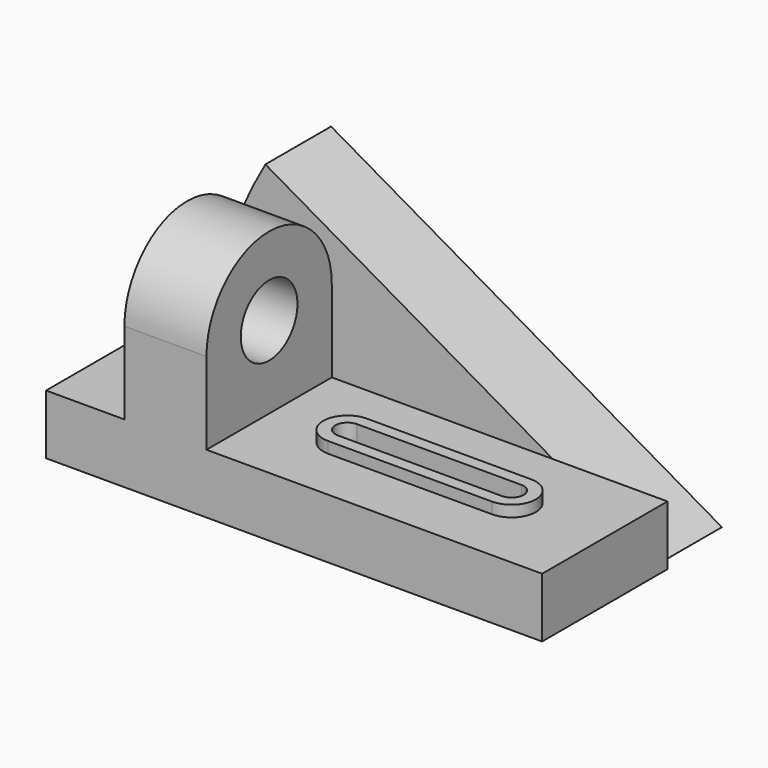
from build123d import *

# Parameters (mm, degrees)
F1_DEPTH  = 22
F2_W      = 133
F2_H      = 16
F3_DEPTH  = 42
F4_W      = 22
F4_H      = 42
F5_DEPTH  = 22
F7_DEPTH  = 22
F8_DEPTH  = 43.001
F10_DEPTH = 3
F11_DEPTH = 16.001


with BuildPart() as f1:
    # F0 (on Front) → F1 (new body)
    with BuildSketch(Plane.XZ):
        with BuildLine():
            ThreePointArc((16.210926, 60.5), (4.122975, 31.317104), (0, 0))
            Line((0, 0), (121, 0))
            Line((121, 0), (16.210926, 60.5))
        make_face()
    extrude(amount=-F1_DEPTH)

    # F2 (on Front) → F3 (join)
    with BuildSketch(Plane.XZ):
        with Locations((57.5, 8)):
            Rectangle(F2_W, F2_H)
    extrude(amount=F3_DEPTH)

    # F4 (on face) → F5 (join)
    with BuildSketch(Plane.XY.offset(16)):
        with Locations((23, -21)):
            Rectangle(F4_W, F4_H)
    extrude(amount=F5_DEPTH)

    # F6 (on face) → F7 (join, through all)
    with BuildSketch(Plane.YZ.offset(34)):
        with BuildLine():
            ThreePointArc((-30.5, 38), (-21, 47.5), (-11.5, 38))
            Line((-11.5, 38), (0, 38))
            ThreePointArc((0, 38), (-21, 59), (-42, 38))
            Line((-42, 38), (-30.5, 38))
        make_face()
    extrude(amount=-F7_DEPTH)

    # F6 (on face) → F8 (cut, through all)
    with BuildSketch(Plane.YZ.offset(34)):
        with BuildLine():
            ThreePointArc((-30.5, 38), (-21, 28.5), (-11.5, 38))
            Line((-11.5, 38), (-30.5, 38))
        make_face()
    extrude(amount=-F8_DEPTH, mode=Mode.SUBTRACT)

    # F9 (on face) → F10 (join)
    with BuildSketch(Plane.XY.offset(16)):
        with BuildLine():
            ThreePointArc((55, -14.5), (48.5, -21), (55, -27.5))
            Line((55, -27.5), (99, -27.5))
            ThreePointArc((99, -27.5), (105.5, -21), (99, -14.5))
            Line((99, -14.5), (55, -14.5))
        make_face()
        with BuildLine():
            Line((99, -24.25), (55, -24.25))
            ThreePointArc((55, -24.25), (51.75, -21), (55, -17.75))
            Line((55, -17.75), (99, -17.75))
            ThreePointArc((99, -17.75), (102.25, -21), (99, -24.25))
        make_face(mode=Mode.SUBTRACT)
    extrude(amount=F10_DEPTH)

    # F10_face (on face) → F11 (cut, through all)
    with BuildSketch(Plane(origin=(77, -21, 16), x_dir=(1, 0, 0), z_dir=(0, 0, 1))):
        with BuildLine():
            ThreePointArc((22, -3.25), (25.25, 0), (22, 3.25))
            Line((22, 3.25), (-22, 3.25))
            ThreePointArc((-22, 3.25), (-25.25, 0), (-22, -3.25))
            Line((-22, -3.25), (22, -3.25))
        make_face()
    extrude(amount=-F11_DEPTH, mode=Mode.SUBTRACT)


solid = f1.part
